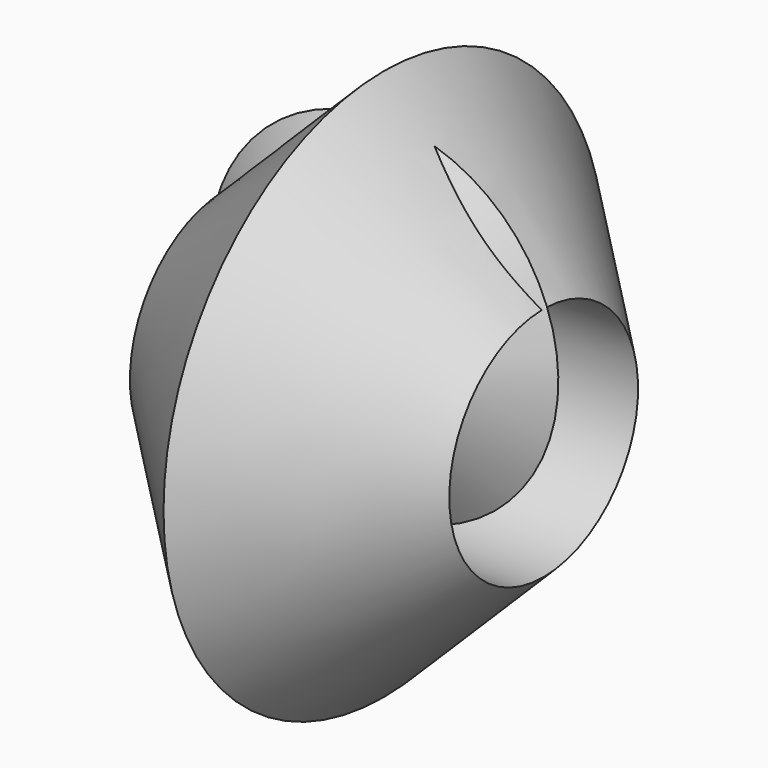
from build123d import *


with BuildPart() as f1:
    # F0 (on Front) → F1 (revolve)
    with BuildSketch(Plane.XZ):
        Polygon((0, 74.359268), (-54.8134, 20.254048), (54.8134, 20.254048), align=None)
    revolve(axis=Axis((0, 0, -20.254048), (1, 0, 0)))

    # F2 (on Right) → F3 (revolve)
    with BuildSketch(Plane.YZ):
        Polygon((0, -59.84737), (34.823682, 0), (-35.51415, 0), align=None)
    revolve(axis=Axis((0, -0.345234, 0), (0, 1, 0)))


solid = f1.part
